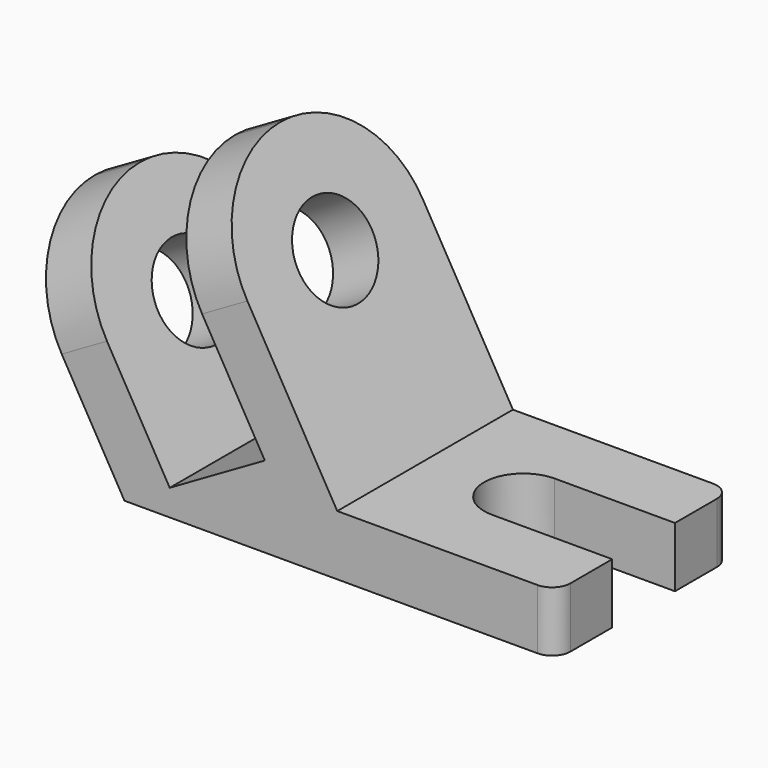
from build123d import *

# Parameters (mm, degrees)
F1_DEPTH = 84
F3_DEPTH = 25
F4_R     = 7
F5_R     = 17.5
F6_DEPTH = 100


with BuildPart() as f1:
    # F0 (on Front) → F1 (new body)
    with BuildSketch(Plane.XZ):
        Polygon((-81.6743281484, 77.9422863406), (-36.6743281484, 0), (128.3256718516, 0), (128.3256718516, 23), (82.3256718516, 23), (44.7320598074, 23), (34.339754962, 41), (-10.660245038, 118.9422863406), (-27.9807531137, 108.9422863406), (17.0192468863, 31), (-19.3538200727, 10), (-64.3538200727, 87.9422863406), align=None)
    extrude(amount=F1_DEPTH)

    # F2 (on face) → F3 (cut)
    with BuildSketch(Plane.XY.offset(23)):
        with BuildLine():
            Line((128.3256718516, -27), (82.3256718516, -27))
            ThreePointArc((82.3256718516, -27), (67.3256718516, -42), (82.3256718516, -57))
            Line((82.3256718516, -57), (128.3256718516, -57))
            Line((128.3256718516, -57), (128.3256718516, -27))
        make_face()
    extrude(amount=-F3_DEPTH, mode=Mode.SUBTRACT)

    # F4
    f4_edges = [f1.edges().sort_by_distance(p)[0] for p in [
        (128.325672, 0, 11.5),
        (128.325672, -84, 11.5),
    ]]
    fillet(f4_edges, radius=F4_R)

    # F5 (on face) → F6 (cut)
    with BuildSketch(Plane(origin=(43.5083369991, 0, 25.1195500784), x_dir=(0, 1, 0), z_dir=(0.8660254038, 0, 0.5))):
        with Locations((-42, 66.3371640742)):
            Circle(F5_R)
        with BuildLine():
            ThreePointArc((-84, 66.3371640742), (-71.6984848098, 96.035648884), (-42, 108.3371640742))
            Line((-42, 108.3371640742), (-84, 108.3371640742))
            Line((-84, 108.3371640742), (-84, 66.3371640742))
        make_face()
        with BuildLine():
            ThreePointArc((-42, 108.3371640742), (-12.3015151902, 96.035648884), (0, 66.3371640742))
            Line((0, 66.3371640742), (0, 108.3371640742))
            Line((0, 108.3371640742), (-42, 108.3371640742))
        make_face()
    extrude(amount=-F6_DEPTH, mode=Mode.SUBTRACT)


solid = f1.part
